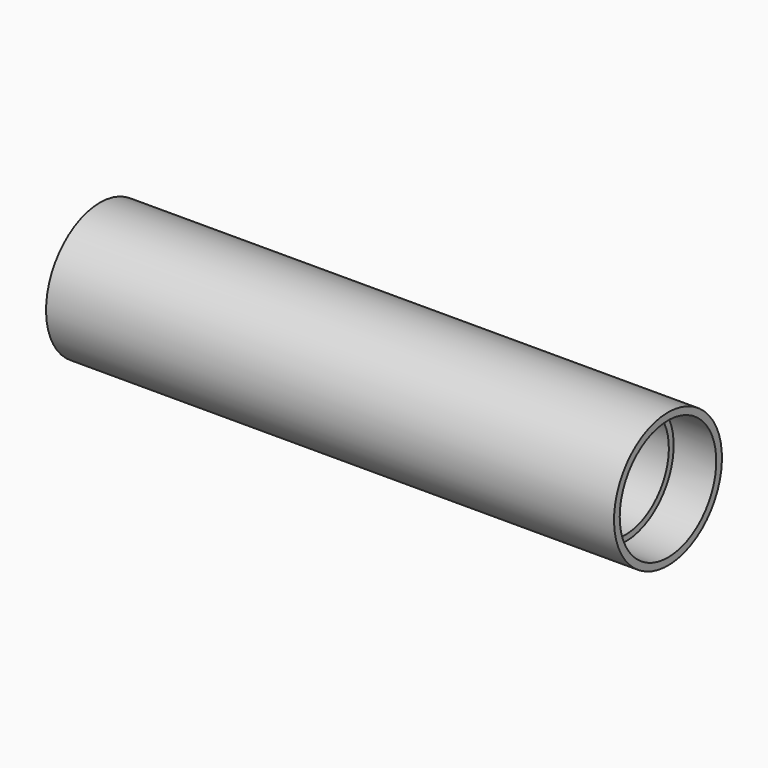
from build123d import *

# Parameters (mm, degrees)
F0_W     = 127
F0_H     = 5.8674
F2_R     = 26.9875
F3_DEPTH = 19.05


with BuildPart() as f1:
    # F0 (on Front) → F1 (revolve)
    with BuildSketch(Plane.XZ):
        with Locations((-63.5, 27.2288)):
            Rectangle(F0_W, F0_H)
    revolve(axis=Axis((-63.5, 0, 0), (-1, 0, 0)))

    # F2 (on face) → F3 (cut)
    with BuildSketch(Plane(origin=(-127, 0, 0), x_dir=(0, -1, 0), z_dir=(-1, 0, 0))):
        Circle(F2_R)
    extrude(amount=-F3_DEPTH, mode=Mode.SUBTRACT)

    # F4: F1 across plane


with BuildPart() as f1_1:
    add(f1.part)
    add(f1.part.mirror(Plane.YZ))


solid = f1_1.part
